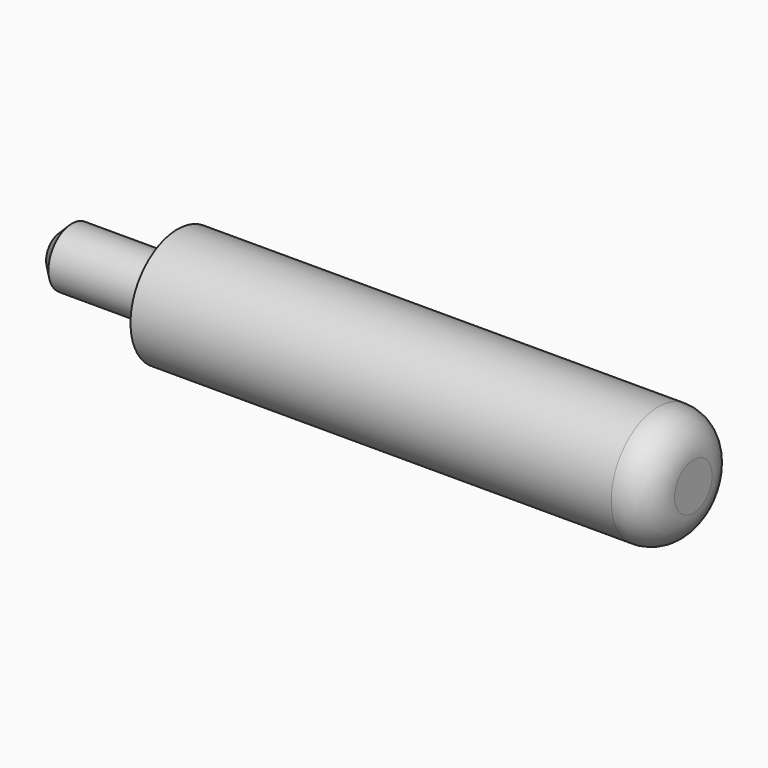
from build123d import *

# Parameters (mm, degrees)
F0_R     = 5
F1_DEPTH = 44
F2_R     = 2.5
F3_DEPTH = 10
F4_SIZE  = 1
F5_R     = 3


with BuildPart() as f1:
    # F0 (on Right) → F1 (new body)
    with BuildSketch(Plane.YZ):
        Circle(F0_R)
    extrude(amount=F1_DEPTH)

    # F2 (on face) → F3 (join)
    with BuildSketch(Plane(origin=(0, 0, 0), x_dir=(0, -1, 0), z_dir=(-1, 0, 0))):
        Circle(F2_R)
    extrude(amount=F3_DEPTH)

    # F4
    f4_edges = [f1.edges().sort_by_distance(p)[0] for p in [
        (-10, 2.5, 0),
    ]]
    chamfer(f4_edges, length=F4_SIZE)

    # F5
    f5_edges = [f1.edges().sort_by_distance(p)[0] for p in [
        (44, -5, 0),
    ]]
    fillet(f5_edges, radius=F5_R)


solid = f1.part
